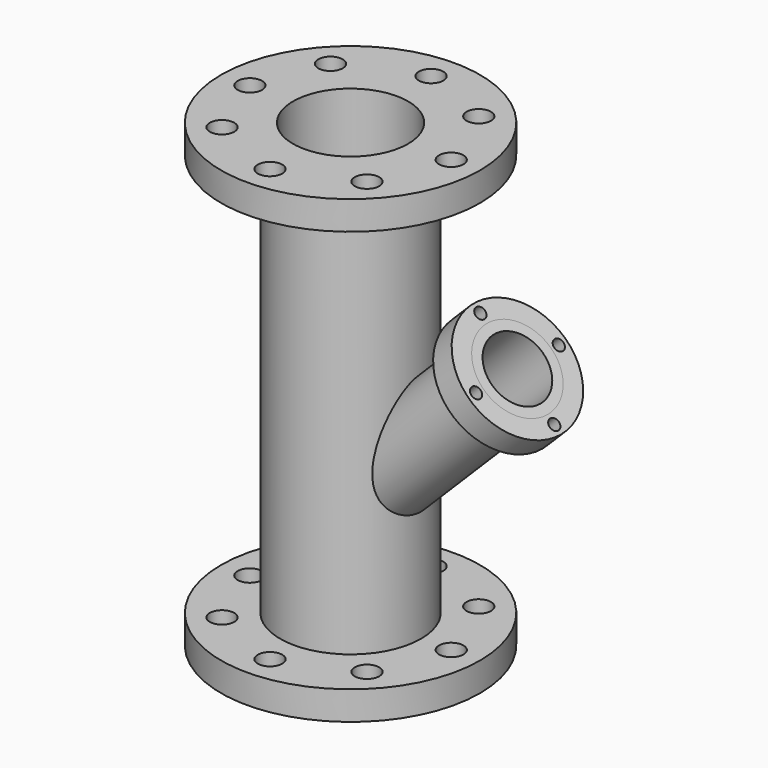
from build123d import *

# Parameters (mm, degrees)
F0_R      = 45
F0_R_2    = 24.5
F1_DEPTH  = 10
F0_R_3    = 20
F2_DEPTH  = 160
F3_R      = 45
F3_R_2    = 24.5
F4_DEPTH  = 10
F5_R      = 4.25
F6_DEPTH  = 177
F8_DEPTH  = 3.4
F9_R      = 14.8996161184
F9_R_2    = 11.3482516677
F10_DEPTH = 64
F9_W      = 20
F9_H      = 6.8
F11_DEPTH = 76.1
F9_R_3    = 21.4151224279
F12_DEPTH = 9.1
F13_R     = 2
F14_DEPTH = 25
F15_R     = 20
F16_DEPTH = 171


with BuildPart() as f1:
    # F0 (on Top) → F1 (new body)
    with BuildSketch(Plane.XY):
        Circle(F0_R)
        Circle(F0_R_2, mode=Mode.SUBTRACT)
    extrude(amount=F1_DEPTH)

    # F0 (on Top) → F2 (join)
    with BuildSketch(Plane.XY):
        Circle(F0_R_2)
        Circle(F0_R_3, mode=Mode.SUBTRACT)
    extrude(amount=F2_DEPTH)

    # F3 (on face) → F4 (join)
    with BuildSketch(Plane.XY.offset(160)):
        Circle(F3_R)
        Circle(F3_R_2, mode=Mode.SUBTRACT)
    extrude(amount=-F4_DEPTH)

    # F5 (on face) → F6 (cut)
    with BuildSketch(Plane.XY.offset(160)):
        with Locations((-25.8504459759, 23.5956445736)):
            Circle(F5_R)
        with Locations((0, 35)):
            Circle(F5_R)
        with Locations((-35, 0)):
            Circle(F5_R)
        with Locations((-25.5312608953, -23.9406498887)):
            Circle(F5_R)
        with Locations((0, -35)):
            Circle(F5_R)
        with Locations((25.1677391227, -24.3225185261)):
            Circle(F5_R)
        with Locations((35, 0)):
            Circle(F5_R)
        with Locations((24.8638034377, 24.6331337554)):
            Circle(F5_R)
    extrude(amount=-F6_DEPTH, mode=Mode.SUBTRACT)

    # F7 (on Front) → F8 (join, symmetric)
    with BuildSketch(Plane.XZ):
        Polygon((22.8907327835, 82.5139518563), (18.8501677475, 78.4733868203), (18.8501677475, 50.1891155728), (65.0720656848, 96.4110135102), (50.9299300611, 110.5531491339), align=None)
    extrude(amount=F8_DEPTH, both=True)

    # F9 (on face) → F10 (join)
    with BuildSketch(Plane(origin=(80.7415395975, 0, 80.7415395975), x_dir=(0.7071067812, 0, -0.7071067812), z_dir=(0.7071067812, 0, 0.7071067812))):
        with Locations((-32.1599825226, 0)):
            Circle(F9_R)
        with Locations((-32.1599825226, 0)):
            Circle(F9_R_2, mode=Mode.SUBTRACT)
    extrude(amount=-F10_DEPTH)

    # F9 (on face) → F11 (cut)
    with BuildSketch(Plane(origin=(80.7415395975, 0, 80.7415395975), x_dir=(0.7071067812, 0, -0.7071067812), z_dir=(0.7071067812, 0, 0.7071067812))):
        with Locations((-32.1599825226, 0)):
            Circle(F9_R_2)
        with Locations((-32.1599825226, 0)):
            Rectangle(F9_W, F9_H, mode=Mode.SUBTRACT)
        with Locations((-32.1599825226, 0)):
            Rectangle(F9_W, F9_H)
    extrude(amount=-F11_DEPTH, mode=Mode.SUBTRACT)

    # F15 (on Top) → F16 (cut)
    with BuildSketch(Plane.XY):
        Circle(F15_R)
    extrude(amount=F16_DEPTH, mode=Mode.SUBTRACT)


with BuildPart() as f12:
    # F9 (on face) → F12 (new body)
    with BuildSketch(Plane(origin=(80.7415395975, 0, 80.7415395975), x_dir=(0.7071067812, 0, -0.7071067812), z_dir=(0.7071067812, 0, 0.7071067812))):
        with Locations((-32.1599825226, 0)):
            Circle(F9_R_3)
        with Locations((-32.1599825226, 0)):
            Circle(F9_R, mode=Mode.SUBTRACT)
    extrude(amount=-F12_DEPTH)

    # F13 (on face) → F14 (cut)
    with BuildSketch(Plane(origin=(80.7415395975, 0, 80.7415395975), x_dir=(0.7071067812, 0, -0.7071067812), z_dir=(0.7071067812, 0, 0.7071067812))):
        with Locations((-32.1467034519, 17.9849918932)):
            Circle(F13_R)
        with Locations((-50.3638200462, 0)):
            Circle(F13_R)
        with Locations((-32.1467034519, -17.9673004895)):
            Circle(F13_R)
        with Locations((-14.0259759501, 0)):
            Circle(F13_R)
    extrude(amount=-F14_DEPTH, mode=Mode.SUBTRACT)


solid = Compound([f1.part, f12.part])
